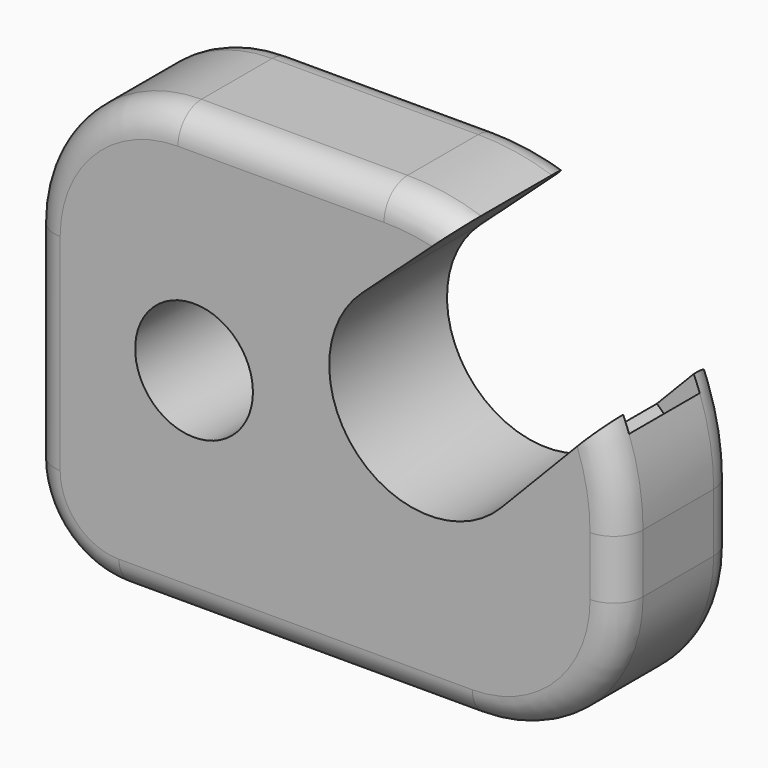
from build123d import *

# Parameters (mm, degrees)
F0_R     = 100
F1_DEPTH = 250
F2_R     = 50
F3_W     = 150
F3_H     = 90
F4_DEPTH = 25


with BuildPart() as f1:
    # F0 (on Front) → F1 (new body)
    with BuildSketch(Plane.XZ):
        with BuildLine():
            Line((-327.409887, 864.442099), (-677.409887, 864.442099))
            ThreePointArc((-677.409887, 864.442099), (-854.186583, 791.218795), (-927.409887, 614.442099))
            Line((-927.409887, 614.442099), (-927.409887, 264.442099))
            ThreePointArc((-927.409887, 264.442099), (-883.475904, 158.376082), (-777.409887, 114.442099))
            Line((-777.409887, 114.442099), (-177.409887, 114.442099))
            ThreePointArc((-177.409887, 114.442099), (-0.633192, 187.665404), (72.590113, 364.442099))
            Line((72.590113, 364.442099), (72.590113, 464.442099))
            ThreePointArc((72.590113, 464.442099), (64.021935, 546.789705), (38.684472, 625.609466))
            Line((38.684472, 625.609466), (-128.117229, 452.820158))
            ThreePointArc((-128.117229, 452.820158), (-372.385207, 452.459405), (-364.855767, 696.611577))
            Line((-364.855767, 696.611577), (-202.457301, 844.424798))
            ThreePointArc((-202.457301, 844.424798), (-264.136984, 859.406072), (-327.409887, 864.442099))
        make_face()
        with Locations((-650.047123, 488.092989)):
            Circle(F0_R, mode=Mode.SUBTRACT)
    extrude(amount=F1_DEPTH)

    # F2
    f2_edges = [f1.edges().sort_by_distance(p)[0] for p in [
        (-502.409887, -250, 864.442099),
        (-502.409887, 0, 864.442099),
    ]]
    fillet(f2_edges, radius=F2_R)

    # F3 (on face) → F4 (cut)
    with BuildSketch(Plane(origin=(-292.586202, 0, 282.447316), x_dir=(0, -1, 0), z_dir=(-0.719463, 0, 0.694531))):
        with Locations((125, 431.970147)):
            Rectangle(F3_W, F3_H)
    extrude(amount=-F4_DEPTH, mode=Mode.SUBTRACT)


solid = f1.part
